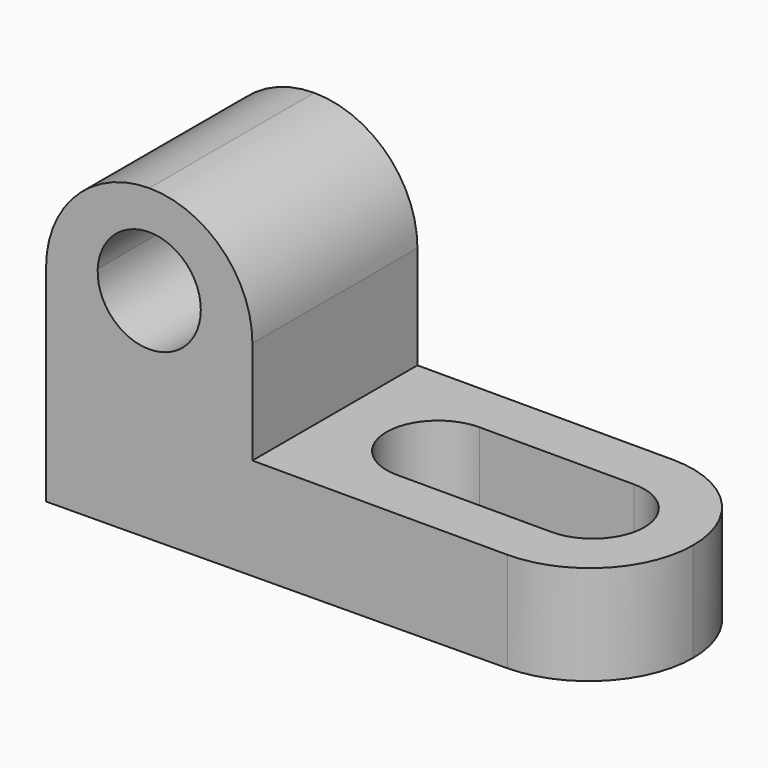
from build123d import *

# Parameters (mm, degrees)
F1_DEPTH  = 25.4
F3_DEPTH  = 25.4
F5_DEPTH  = 101.6
F7_DEPTH  = 127
F8_DEPTH  = 25.4
F10_DEPTH = 25.4


with BuildPart() as f1:
    # F0 (on Front) → F1 (new body)
    with BuildSketch(Plane.XZ):
        Polygon((25.4, 38.1), (0, 38.1), (0, 0), (69.502056, 0.486028), (69.502056, 12.7), (25.4, 12.7), align=None)
    extrude(amount=F1_DEPTH)

    # F2 (on face) → F3 (cut)
    with BuildSketch(Plane.XY.offset(12.7)):
        with BuildLine():
            ThreePointArc((56.802056, 0), (65.782312, -3.719744), (69.502056, -12.7))
            Line((69.502056, -12.7), (69.502056, 0))
            Line((69.502056, 0), (56.802056, 0))
        make_face()
        with BuildLine():
            Line((56.802056, -25.4), (69.502056, -25.4))
            Line((69.502056, -25.4), (69.502056, -12.7))
            ThreePointArc((69.502056, -12.7), (65.782312, -21.680256), (56.802056, -25.4))
        make_face()
    extrude(amount=-F3_DEPTH, mode=Mode.SUBTRACT)

    # F4 (on face) → F5 (cut)
    with BuildSketch(Plane.XZ.offset(25.4)):
        with BuildLine():
            ThreePointArc((6.357221, 27.282854), (12.548588, 20.631922), (19.05, 26.980117))
            ThreePointArc((19.05, 26.980117), (12.851412, 33.328312), (6.357221, 27.282854))
        make_face()
    extrude(amount=-F5_DEPTH, mode=Mode.SUBTRACT)

    # F6 (on face) → F7 (cut)
    with BuildSketch(Plane.XZ.offset(25.4)):
        with BuildLine():
            ThreePointArc((12.7, 38.1), (21.680256, 34.380256), (25.4, 25.4))
            Line((25.4, 25.4), (25.4, 38.1))
            Line((25.4, 38.1), (12.7, 38.1))
        make_face()
        with BuildLine():
            ThreePointArc((0, 25.4), (3.719744, 34.380256), (12.7, 38.1))
            Line((12.7, 38.1), (0, 38.1))
            Line((0, 38.1), (0, 25.4))
        make_face()
    extrude(amount=F7_DEPTH, mode=Mode.SUBTRACT)

    # F6 (on face) → F8 (cut)
    with BuildSketch(Plane.XZ.offset(25.4)):
        with BuildLine():
            ThreePointArc((0, 25.4), (3.719744, 34.380256), (12.7, 38.1))
            Line((12.7, 38.1), (0, 38.1))
            Line((0, 38.1), (0, 25.4))
        make_face()
        with BuildLine():
            ThreePointArc((12.7, 38.1), (21.680256, 34.380256), (25.4, 25.4))
            Line((25.4, 25.4), (25.4, 38.1))
            Line((25.4, 38.1), (12.7, 38.1))
        make_face()
    extrude(amount=-F8_DEPTH, mode=Mode.SUBTRACT)

    # F9 (on Top) → F10 (cut)
    with BuildSketch(Plane.XY):
        with BuildLine():
            ThreePointArc((63.5, -12.7), (61.640128, -8.209872), (57.15, -6.35))
            ThreePointArc((57.15, -6.35), (50.8, -12.7), (57.15, -19.05))
            ThreePointArc((57.15, -19.05), (61.640128, -17.190128), (63.5, -12.7))
        make_face()
        with BuildLine():
            ThreePointArc((38.1, -6.35), (42.590128, -8.209872), (44.45, -12.7))
            ThreePointArc((44.45, -12.7), (42.590128, -17.190128), (38.1, -19.05))
            Line((38.1, -19.05), (57.15, -19.05))
            ThreePointArc((57.15, -19.05), (50.8, -12.7), (57.15, -6.35))
            Line((57.15, -6.35), (38.1, -6.35))
        make_face()
        with BuildLine():
            ThreePointArc((38.1, -19.05), (42.590128, -17.190128), (44.45, -12.7))
            ThreePointArc((44.45, -12.7), (42.590128, -8.209872), (38.1, -6.35))
            ThreePointArc((38.1, -6.35), (31.75, -12.7), (38.1, -19.05))
        make_face()
    extrude(amount=F10_DEPTH, mode=Mode.SUBTRACT)


solid = f1.part
